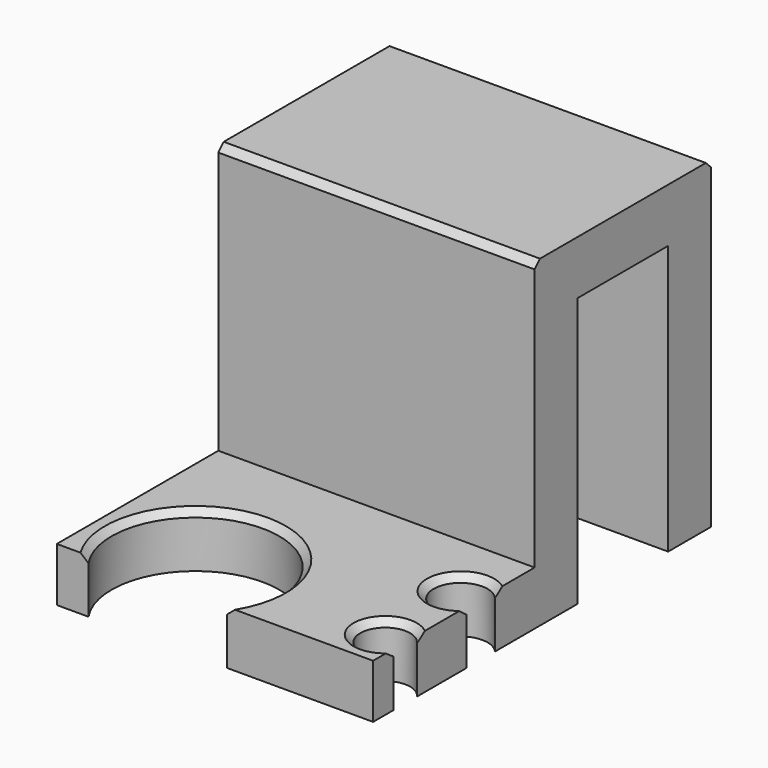
from build123d import *

# Parameters (mm, degrees)
BOX_W             = 31
BOX_H             = 8.4
BOX_DEPTH         = 20
CYLINDER_R        = 6.225
CYLINDER_DEPTH    = 10
CYLINDER001_R     = 2
CYLINDER001_DEPTH = 10
CYLINDER002_R     = 1.85
CYLINDER002_DEPTH = 10
BOX003_W          = 23.5
BOX003_H          = 4
BOX003_DEPTH      = 24
BOX002_W          = 23.5
BOX002_H          = 16
BOX002_DEPTH      = 4
BOX001_W          = 23.5
BOX001_H          = 4
BOX001_DEPTH      = 24
BOX004_W          = 23.5
BOX004_H          = 14
BOX004_DEPTH      = 4
CHAMFER_SIZE      = 0.5
CHAMFER001_SIZE   = 0.5


with BuildPart() as glass:
    # Box → Box (new body)
    with BuildSketch(Plane(origin=(-10, 0, 0), x_dir=(1, 0, 0), z_dir=(0, 0, 1))):
        with Locations((15.5, 4.2)):
            Rectangle(BOX_W, BOX_H)
    extrude(amount=BOX_DEPTH)


with BuildPart() as obj1:
    # Cylinder → Cylinder (new body)
    with BuildSketch(Plane(origin=(-2.5, -15.5, 0), x_dir=(1, 0, 0), z_dir=(0, 0, 1))):
        Circle(CYLINDER_R)
    extrude(amount=CYLINDER_DEPTH)


with BuildPart() as temp_tube:
    # Cylinder001 → Cylinder001 (new body)
    with BuildSketch(Plane(origin=(12, -9, 0), x_dir=(1, 0, 0), z_dir=(0, 0, 1))):
        Circle(CYLINDER001_R)
    extrude(amount=CYLINDER001_DEPTH)


with BuildPart() as obj2:
    # Cylinder002 → Cylinder002 (new body)
    with BuildSketch(Plane(origin=(12, -16, 0), x_dir=(1, 0, 0), z_dir=(0, 0, 1))):
        Circle(CYLINDER002_R)
    extrude(amount=CYLINDER002_DEPTH)


with BuildPart() as back:
    # Box003 → Box003 (new body)
    with BuildSketch(Plane(origin=(-10, 8.4, 0), x_dir=(1, 0, 0), z_dir=(0, 0, 1))):
        with Locations((11.75, 2)):
            Rectangle(BOX003_W, BOX003_H)
    extrude(amount=BOX003_DEPTH)


with BuildPart() as bottom:
    # Box002 → Box002 (new body)
    with BuildSketch(Plane(origin=(-10, -19, 0), x_dir=(1, 0, 0), z_dir=(0, 0, 1))):
        with Locations((11.75, 8)):
            Rectangle(BOX002_W, BOX002_H)
    extrude(amount=BOX002_DEPTH)


with BuildPart() as front:
    # Box001 → Box001 (new body)
    with BuildSketch(Plane(origin=(-10, -4, 0), x_dir=(1, 0, 0), z_dir=(0, 0, 1))):
        with Locations((11.75, 2)):
            Rectangle(BOX001_W, BOX001_H)
    extrude(amount=BOX001_DEPTH)


with BuildPart() as chamfer001:
    # Box004 → Box004 (new body)
    with BuildSketch(Plane(origin=(-10, -4, 20), x_dir=(1, 0, 0), z_dir=(0, 0, 1))):
        with Locations((11.75, 7)):
            Rectangle(BOX004_W, BOX004_H)
    extrude(amount=BOX004_DEPTH)

    # Fusion: union Back, Bottom, Front
    add(back.part)
    add(bottom.part)
    add(front.part)

    # Cut: cut obj2
    add(obj2.part, mode=Mode.SUBTRACT)

    # Cut001: cut Temp_tube
    add(temp_tube.part, mode=Mode.SUBTRACT)

    # Cut002: cut obj1
    add(obj1.part, mode=Mode.SUBTRACT)

    # Cut003: cut Glass
    add(glass.part, mode=Mode.SUBTRACT)

    # Chamfer
    chamfer_edges = [chamfer001.edges().sort_by_distance(p)[0] for p in [
        (10, -9, 4),
        (10.15, -16, 4),
        (3.449628, -17.330997, 4),
        (-4.330997, -9.550372, 4),
    ]]
    chamfer(chamfer_edges, length=CHAMFER_SIZE)

    # Chamfer001
    chamfer001_edges = [chamfer001.edges().sort_by_distance(p)[0] for p in [
        (1.75, -4, 24),
        (1.75, 12.4, 24),
    ]]
    chamfer(chamfer001_edges, length=CHAMFER001_SIZE)


solid = chamfer001.part
